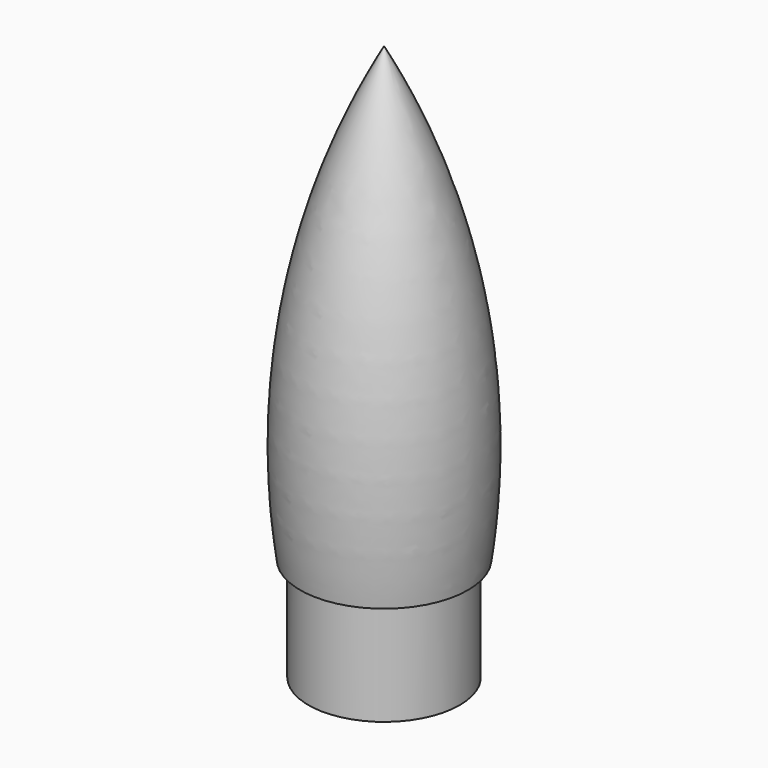
from build123d import *


with BuildPart() as f1:
    # F0 (on Front) → F1 (revolve)
    with BuildSketch(Plane.XZ):
        with BuildLine():
            Line((11.1125, 19.05), (11.1125, 0))
            Line((11.1125, 0), (12.7, 0))
            Line((12.7, 0), (12.7, 17.4625))
            Line((12.7, 17.4625), (14.087017, 17.4625))
            ThreePointArc((14.087017, 17.4625), (13.241721, 56.548075), (0, 93.331951))
            Line((0, 93.331951), (0, 89.9922))
            ThreePointArc((0, 89.9922), (11.819131, 55.500178), (12.7, 19.05))
            Line((12.7, 19.05), (11.1125, 19.05))
        make_face()
    revolve(axis=Axis((0, 0, 44.9961), (0, 0, 1)))


solid = f1.part
